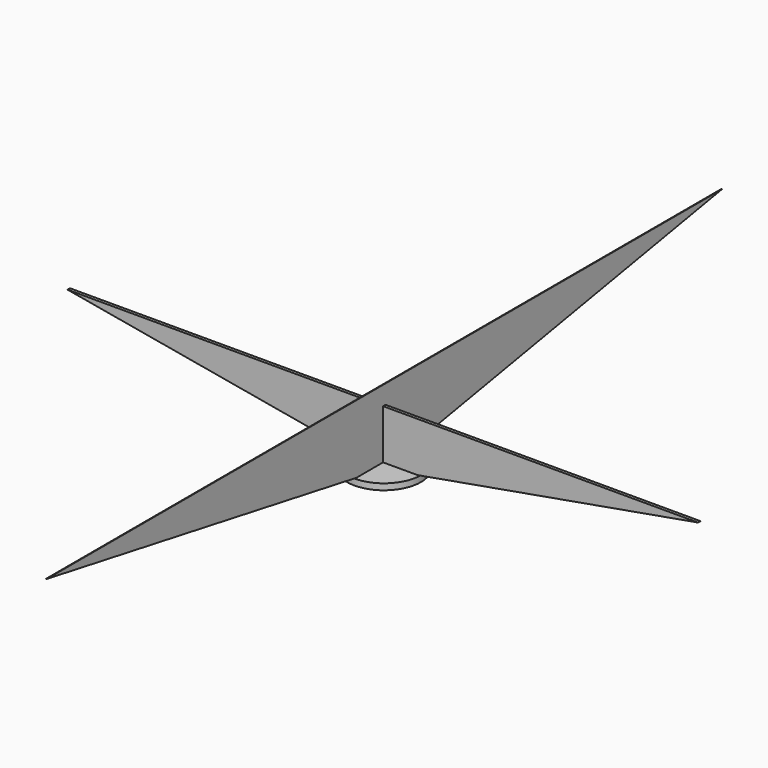
from build123d import *

# Parameters (mm, degrees)
F0_R     = 6
F1_DEPTH = 1
F3_DEPTH = 0.05
F5_DEPTH = 0.25


with BuildPart() as f1:
    # F0 (on Top) → F1 (new body)
    with BuildSketch(Plane.XY):
        Circle(F0_R)
    extrude(amount=F1_DEPTH)

    # F2 (on Right) → F3 (join, symmetric)
    with BuildSketch(Plane.YZ):
        Polygon((-68.617978, 12.099201), (0, 0), (68.617978, 12.099201), align=None)
    extrude(amount=F3_DEPTH, both=True)

    # F4 (on Front) → F5 (join, symmetric)
    with BuildSketch(Plane.XZ):
        Polygon((-51.259427, 9.03842), (0, 0), (51.259427, 9.03842), align=None)
    extrude(amount=F5_DEPTH, both=True)


solid = f1.part
